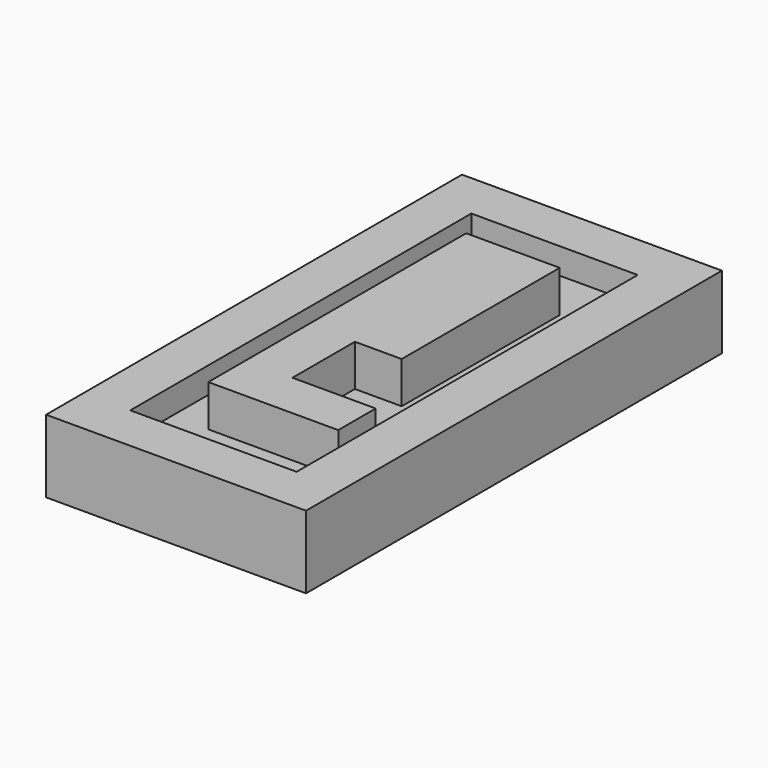
from build123d import *

# Parameters (mm, degrees)
F0_W     = 5
F0_H     = 10
F1_DEPTH = 1.4
F2_T     = -0.9
F4_DEPTH = 0.8


with BuildPart() as f1:
    # F0 (on Top) → F1 (new body)
    with BuildSketch(Plane.XY):
        with Locations((3.4046815708, 2.8265781289)):
            Rectangle(F0_W, F0_H)
    extrude(amount=F1_DEPTH)

    # F2
    f2_openings = [f1.faces().sort_by_distance(p)[0] for p in [
        (3.404682, 2.826578, 1.4),
    ]]
    offset(amount=F2_T, openings=f2_openings)

    # F3 (on face) → F4 (join)
    with BuildSketch(Plane.XY.offset(0.9)):
        Polygon((5.0046815708, -0.2734218711), (5.0046815708, 0.6265781289), (3.4046815708, 0.6265781289), (3.4046815708, 2.1265781289), (4.3046815708, 2.1265781289), (4.3046815708, 5.9265781289), (2.5046815708, 5.9265781289), (2.5046815708, -0.2734218711), align=None)
    extrude(amount=F4_DEPTH)


solid = f1.part
